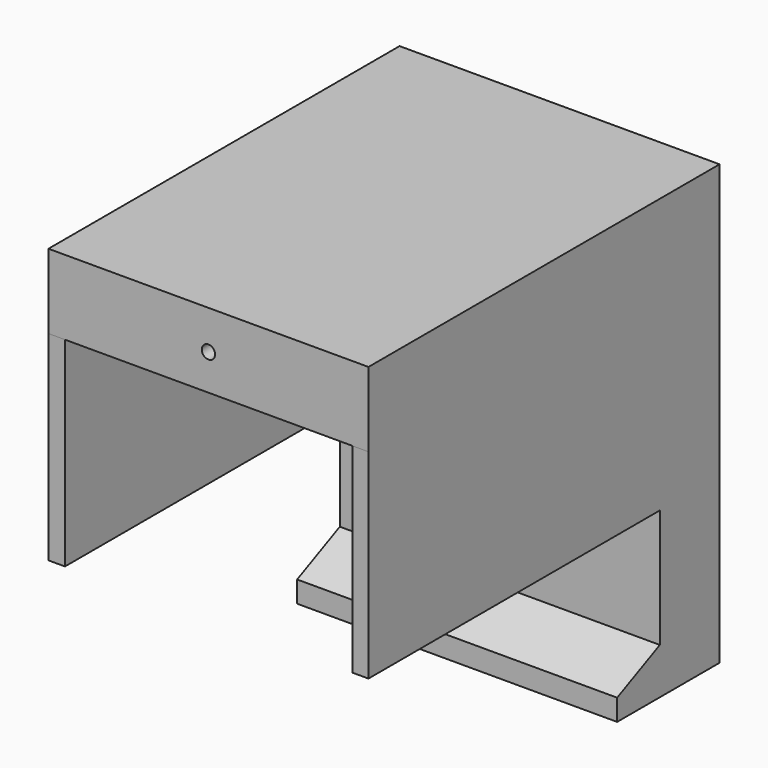
from build123d import *

# Parameters (mm, degrees)
F1_DEPTH  = 60
F3_DEPTH  = 3.1
F6_DEPTH  = 3
F8_R      = 1.25
F9_DEPTH  = 100
F10_R     = 1.25
F11_DEPTH = 60


with BuildPart() as f1:
    # F0 (on Right) → F1 (new body)
    with BuildSketch(Plane.YZ):
        Polygon((-4, 0), (0, 0), (10, 0), (10, 4), (10, 82.284271), (-68.284271, 82.284271), (-72.284271, 82.284271), (-72.284271, 72.284271), (-72.284271, 68.284271), (-32.284271, 68.284271), (-7.284271, 68.284271), (-4, 65), (-4, 40), (-4, 8.644639), align=None)
        Polygon((-14, 0), (-4, 0), (-4, 8.644639), (-14, 4), align=None)
    extrude(amount=F1_DEPTH)

    # F2 (on Right) → F3 (join)
    with BuildSketch(Plane.YZ):
        Polygon((-30.521803, 70.845065), (-72.284, 70.845065), (-72.284, 30.845065), (-2.284, 30.845065), (-2.284, 42.845065), (-2.472219, 70.845065), align=None)
    extrude(amount=F3_DEPTH)

    # F5 (on offset) → F6 (join)
    with BuildSketch(Plane.YZ.offset(60)):
        Polygon((-30.521803, 70.845), (-72.284, 70.845), (-72.284, 30.845), (-2.284, 30.845), (-2.284, 42.845), (-2.284, 70.845), align=None)
    extrude(amount=-F6_DEPTH)

    # F8 (on offset) → F9 (cut)
    with BuildSketch(Plane.XZ.offset(25)):
        with Locations((30, 75)):
            Circle(F8_R)
    extrude(amount=F9_DEPTH, mode=Mode.SUBTRACT)

    # F10 (on Top) → F11 (cut)
    with BuildSketch(Plane.XY):
        with Locations((30, 5)):
            Circle(F10_R)
    extrude(amount=F11_DEPTH, mode=Mode.SUBTRACT)


solid = f1.part
